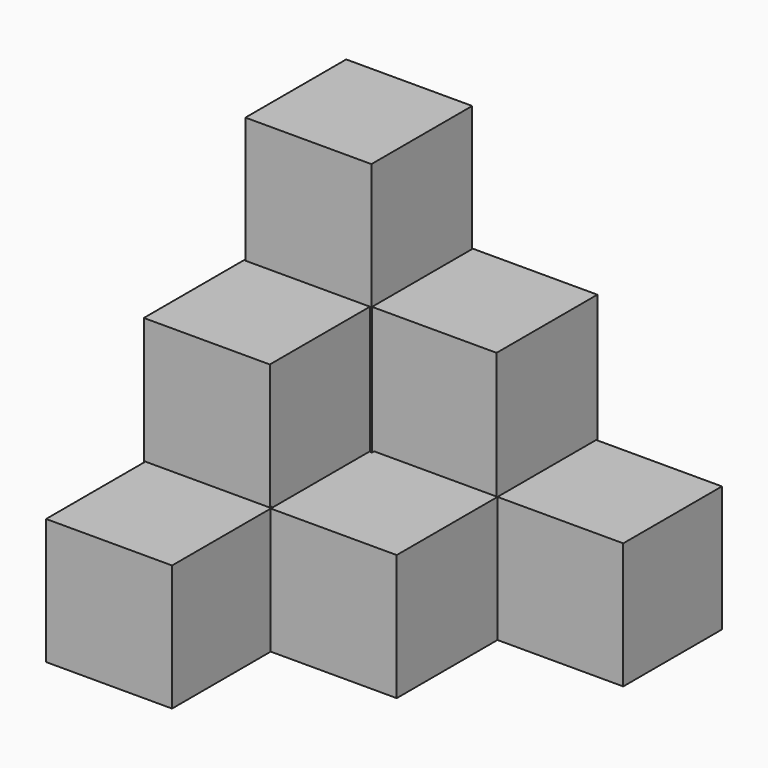
from build123d import *

# Parameters (mm, degrees)
F0_W     = 25.3514568745
F0_H     = 24.869726705
F1_DEPTH = 25.4
F2_W     = 25.4
F2_H     = 25.4
F3_DEPTH = 50.8
F4_W     = 25.4
F4_H     = 25.4
F5_DEPTH = 76.2


with BuildPart() as f1:
    # F0 (on Top) → F1 (new body)
    with BuildSketch(Plane.XY):
        with Locations((25.4, 25.1348633525)):
            Rectangle(F0_W, F0_H)
    extrude(amount=F1_DEPTH)


with BuildPart() as f1b:
    # F0 (on Top) → F1, piece 2 (new body)
    with BuildSketch(Plane.XY):
        Polygon((-12.7242715627, -12.1654834284), (-38.0757284373, -12.1654834284), (-38.0757284373, -37.569726705), (-12.6757284373, -37.569726705), (-12.6757284373, -12.7), (-12.7242715627, -12.7), align=None)
    extrude(amount=F1_DEPTH)


with BuildPart() as f1c:
    # F0 (on Top) → F1, piece 3 (new body)
    with BuildSketch(Plane.XY):
        Polygon((12.7242715627, 12.7), (-12.1654834284, 12.7), (-12.1654834284, 12.169726705), (-12.6757284373, 12.169726705), (-12.6757284373, -12.1654834284), (-12.6757284373, -12.7), (12.7242715627, -12.7), align=None)
    extrude(amount=F1_DEPTH)


with BuildPart() as f3:
    # F2 (on Top) → F3 (new body)
    with BuildSketch(Plane.XY):
        with Locations((-25.694198918, 0.1644869)):
            Rectangle(F2_W, F2_H)
    extrude(amount=F3_DEPTH)


with BuildPart() as f3b:
    # F2 (on Top) → F3, piece 2 (new body)
    with BuildSketch(Plane.XY):
        with Locations((-0.294198918, 25.5644869)):
            Rectangle(F2_W, F2_H)
    extrude(amount=F3_DEPTH)


with BuildPart() as f5:
    # F4 (on Top) → F5 (new body)
    with BuildSketch(Plane.XY):
        with Locations((-25.4, 25.4)):
            Rectangle(F4_W, F4_H)
    extrude(amount=F5_DEPTH)


solid = Compound([f1.part, f1b.part, f1c.part, f3.part, f3b.part, f5.part])
